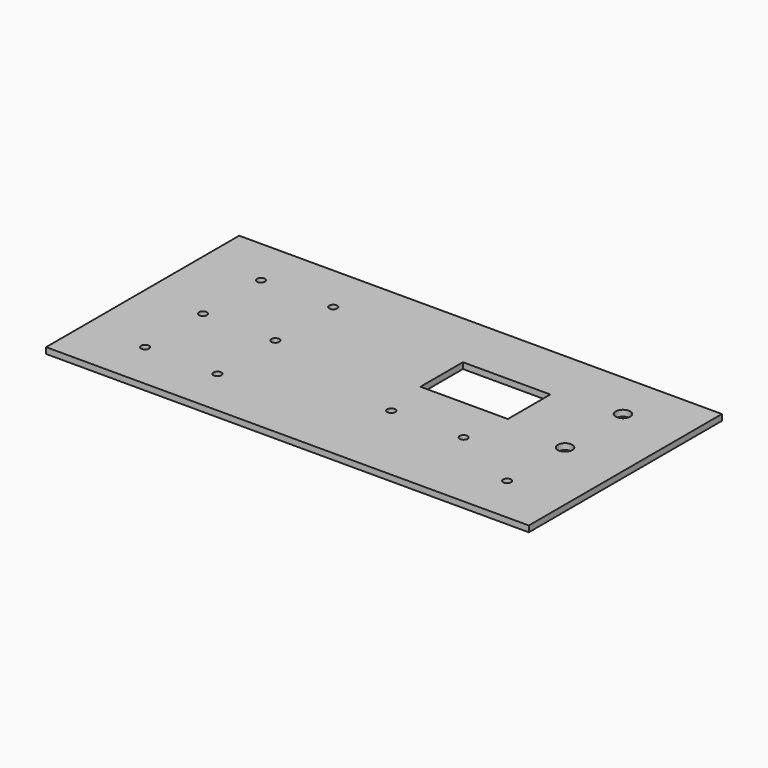
from build123d import *

# Parameters (mm, degrees)
F1_W     = 254
F1_H     = 127
F1_R     = 2.0955
F1_W_2   = 45.974
F1_H_2   = 27.94
F1_R_2   = 3.81
F2_DEPTH = 3.175


with BuildPart() as f2:
    # F1 (on Top) → F2 (new body)
    with BuildSketch(Plane.XY):
        Rectangle(F1_W, F1_H)
        with Locations((-95.25, -38.1)):
            Circle(F1_R, mode=Mode.SUBTRACT)
        with Locations((-57.15, -38.1)):
            Circle(F1_R, mode=Mode.SUBTRACT)
        with Locations((95.25, -38.1)):
            Circle(F1_R, mode=Mode.SUBTRACT)
        with Locations((19.05, -19.05)):
            Circle(F1_R, mode=Mode.SUBTRACT)
        with Locations((57.15, -19.05)):
            Circle(F1_R, mode=Mode.SUBTRACT)
        with Locations((-95.25, 0)):
            Circle(F1_R, mode=Mode.SUBTRACT)
        with Locations((-57.15, 0)):
            Circle(F1_R, mode=Mode.SUBTRACT)
        with Locations((-95.25, 38.1)):
            Circle(F1_R, mode=Mode.SUBTRACT)
        with Locations((-57.15, 38.1)):
            Circle(F1_R, mode=Mode.SUBTRACT)
        with Locations((38.1, 19.05)):
            Rectangle(F1_W_2, F1_H_2, mode=Mode.SUBTRACT)
        with Locations((95.25, 0)):
            Circle(F1_R_2, mode=Mode.SUBTRACT)
        with Locations((95.25, 38.1)):
            Circle(F1_R_2, mode=Mode.SUBTRACT)
    extrude(amount=F2_DEPTH)


solid = f2.part
